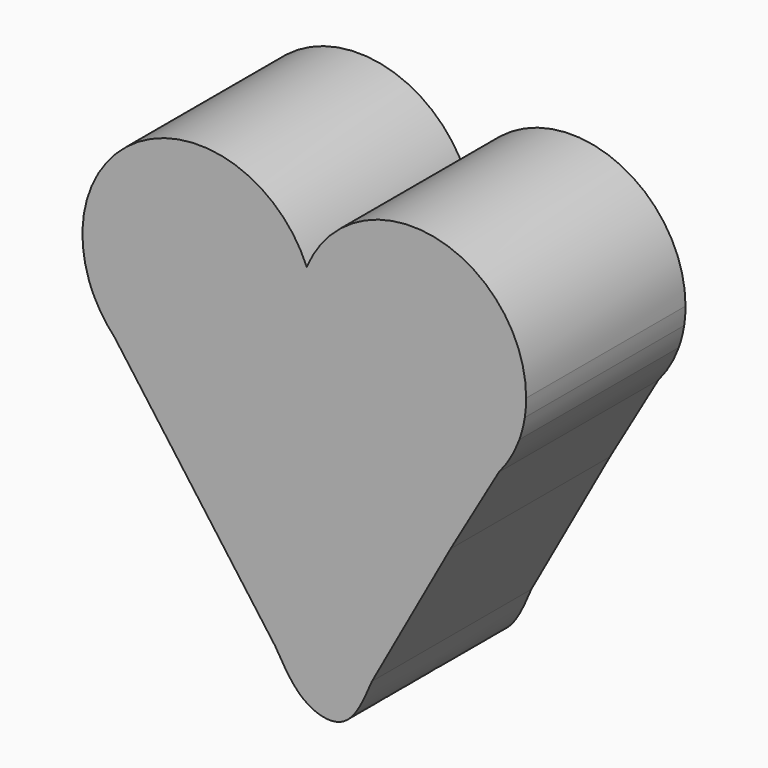
from build123d import *

# Parameters (mm, degrees)
F1_DEPTH = 50.8


with BuildPart() as f1:
    # F0 (on Front) → F1 (new body)
    with BuildSketch(Plane.XZ):
        with BuildLine():
            Line((-51.3954042884, 6.4779423518), (-61.5453907135, 20.3519611838))
            ThreePointArc((-61.5453907135, 20.3519611838), (-60.8667138024, 18.6005583406), (-60.0787079167, 16.8955477856))
            Line((-60.0787079167, 16.8955477856), (-54.2455671219, 8.922226261))
            ThreePointArc((-54.2455671219, 8.922226261), (-52.8591429812, 7.6550079014), (-51.3954042884, 6.4779423518))
        make_face()
        with BuildLine():
            ThreePointArc((-6.0226364292, 41.4420108727), (-44.0692352638, 57.9743919714), (-61.5453907135, 20.3519611838))
            Line((-61.5453907135, 20.3519611838), (-51.3954042884, 6.4779423518))
            ThreePointArc((-51.3954042884, 6.4779423518), (-25.6375926651, 1.5636092662), (-6.0226364292, 18.9667417762))
            ThreePointArc((-6.0226364292, 18.9667417762), (-8.2795262845, 30.2043763245), (-6.0226364292, 41.4420108727))
        make_face()
        with BuildLine():
            Line((-54.2455671219, 8.922226261), (-60.0787079167, 16.8955477856))
            ThreePointArc((-60.0787079167, 16.8955477856), (-57.8142370593, 13.1083030608), (-55.0137343474, 9.6982832032))
            ThreePointArc((-55.0137343474, 9.6982832032), (-54.6332168762, 9.3067248454), (-54.2455671219, 8.922226261))
        make_face()
        with BuildLine():
            ThreePointArc((49.9324337511, 30.2043763245), (26.557465469, 58.7405564697), (-6.0226364292, 41.4420108727))
            ThreePointArc((-6.0226364292, 41.4420108727), (-4.3721548681, 35.9305871783), (-3.8150285088, 30.2043763245))
            ThreePointArc((-3.8150285088, 30.2043763245), (-4.3721548681, 24.4781654706), (-6.0226364292, 18.9667417762))
            ThreePointArc((-6.0226364292, 18.9667417762), (14.6704111622, 1.7568595144), (40.6273265146, 8.8716899044))
            Line((40.6273265146, 8.8716899044), (49.5864414711, 25.7298732103))
            ThreePointArc((49.5864414711, 25.7298732103), (49.8458067689, 27.9604462466), (49.9324337511, 30.2043763245))
        make_face()
        with BuildLine():
            ThreePointArc((-3.8150285088, 30.2043763245), (-4.3721548681, 35.9305871783), (-6.0226364292, 41.4420108727))
            ThreePointArc((-6.0226364292, 41.4420108727), (-8.2795262845, 30.2043763245), (-6.0226364292, 18.9667417762))
            ThreePointArc((-6.0226364292, 18.9667417762), (-4.3721548681, 24.4781654706), (-3.8150285088, 30.2043763245))
        make_face()
        with BuildLine():
            ThreePointArc((-6.0226364292, 18.9667417762), (-25.6375926651, 1.5636092662), (-51.3954042884, 6.4779423518))
            ThreePointArc((-51.3954042884, 6.4779423518), (-52.8591429812, 7.6550079014), (-54.2455671219, 8.922226261))
            ThreePointArc((-54.2455671219, 8.922226261), (-54.6332168762, 9.3067248454), (-55.0137343474, 9.6982832032))
            Line((-55.0137343474, 9.6982832032), (-14.1391605139, -46.1731813848))
            add(Edge.make_bspline(
                [(-14.1391605139, -46.1731813848), (-11.8439830731, -50.1050845186), (-7.5927454261, -57.3879439304), (4.7284603427, -60.0028426907), (8.5254006183, -51.0662741363), (10.6043620035, -46.1731813848)],
                knots=[0, 0, 0, 0, 0.3467922767, 0.6423452742, 1, 1, 1, 1], degree=3))
            Line((10.6043620035, -46.1731813848), (30.6583169634, -9.8867913974))
            Line((30.6583169634, -9.8867913974), (40.6273265146, 8.8716899044))
            ThreePointArc((40.6273265146, 8.8716899044), (14.6704111622, 1.7568595144), (-6.0226364292, 18.9667417762))
        make_face()
        with BuildLine():
            ThreePointArc((48.2141880079, 20.3519611838), (49.0287968317, 23.0081330988), (49.5864414711, 25.7298732103))
            Line((49.5864414711, 25.7298732103), (40.6273265146, 8.8716899044))
            ThreePointArc((40.6273265146, 8.8716899044), (41.0589651736, 9.2806206), (41.4821603951, 9.6982832032))
            ThreePointArc((41.4821603951, 9.6982832032), (42.2370183544, 10.4877387966), (42.9617238671, 11.3049612832))
            Line((42.9617238671, 11.3049612832), (48.2141880079, 20.3519611838))
        make_face()
        with BuildLine():
            ThreePointArc((41.4821603951, 9.6982832032), (41.0589651736, 9.2806206), (40.6273265146, 8.8716899044))
            Line((40.6273265146, 8.8716899044), (30.6583169634, -9.8867913974))
            Line((30.6583169634, -9.8867913974), (41.4821603951, 9.6982832032))
        make_face()
        with BuildLine():
            ThreePointArc((42.9617238671, 11.3049612832), (45.9977477646, 15.590546245), (48.2141880079, 20.3519611838))
            Line((48.2141880079, 20.3519611838), (42.9617238671, 11.3049612832))
        make_face()
        with BuildLine():
            ThreePointArc((42.9617238671, 11.3049612832), (42.2370183544, 10.4877387966), (41.4821603951, 9.6982832032))
            Line((41.4821603951, 9.6982832032), (30.6583169634, -9.8867913974))
            Line((30.6583169634, -9.8867913974), (42.9617238671, 11.3049612832))
        make_face()
    extrude(amount=F1_DEPTH)


solid = f1.part
